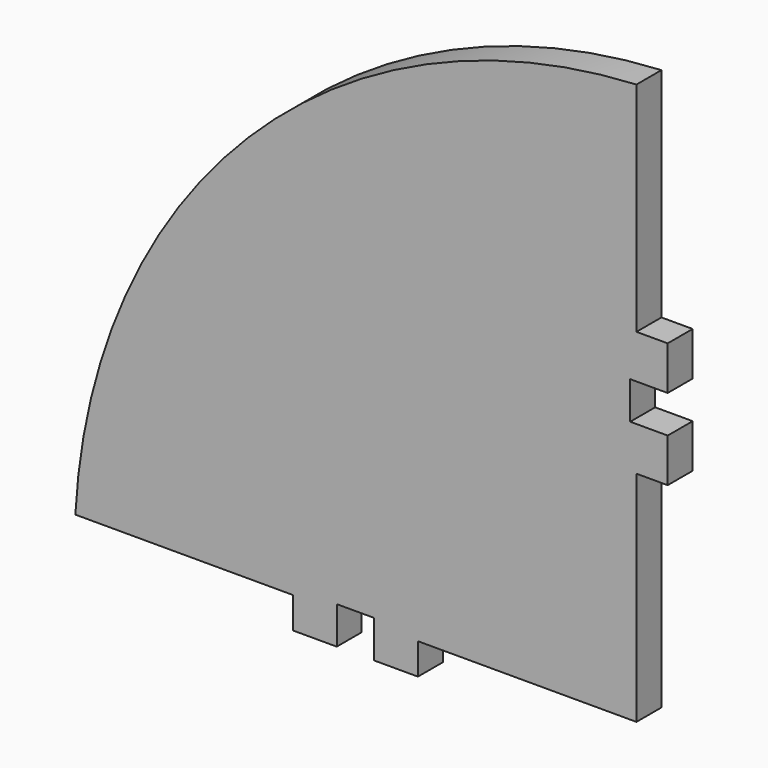
from build123d import *

# Parameters (mm, degrees)
F1_DEPTH = 3.175
F2_W     = 22.225
F2_H     = 3.175
F2_W_2   = 3.175
F2_H_2   = 22.225
F3_DEPTH = 25.4


with BuildPart() as f1:
    # F0 (on Front) → F1 (new body)
    with BuildSketch(Plane.XZ):
        with BuildLine():
            Line((-60.325, 0), (0, 0))
            Line((0, 0), (0, 60.325))
            ThreePointArc((0, 60.325), (-42.656217, 42.656217), (-60.325, 0))
        make_face()
    extrude(amount=F1_DEPTH)

    # F2 (on face) → F3 (cut)
    with BuildSketch(Plane.XZ.offset(3.175)):
        with Locations((-49.2125, 1.5875)):
            Rectangle(F2_W, F2_H)
        with Locations((-1.5875, 1.5875)):
            Rectangle(F2_W_2, F2_H)
        with Locations((-14.2875, 1.5875)):
            Rectangle(F2_W, F2_H)
        with Locations((-1.5875, 14.2875)):
            Rectangle(F2_W_2, F2_H_2)
        with Locations((-1.5875, 49.2125)):
            Rectangle(F2_W_2, F2_H_2)
        Polygon((0, 29.845), (0, 31.75), (0, 33.655), (-3.81, 33.655), (-3.81, 31.75), (-3.81, 29.845), align=None)
        Polygon((-33.655, 0), (-31.75, 0), (-29.845, 0), (-29.845, 3.81), (-31.75, 3.81), (-33.655, 3.81), align=None)
    extrude(amount=-F3_DEPTH, mode=Mode.SUBTRACT)


solid = f1.part
